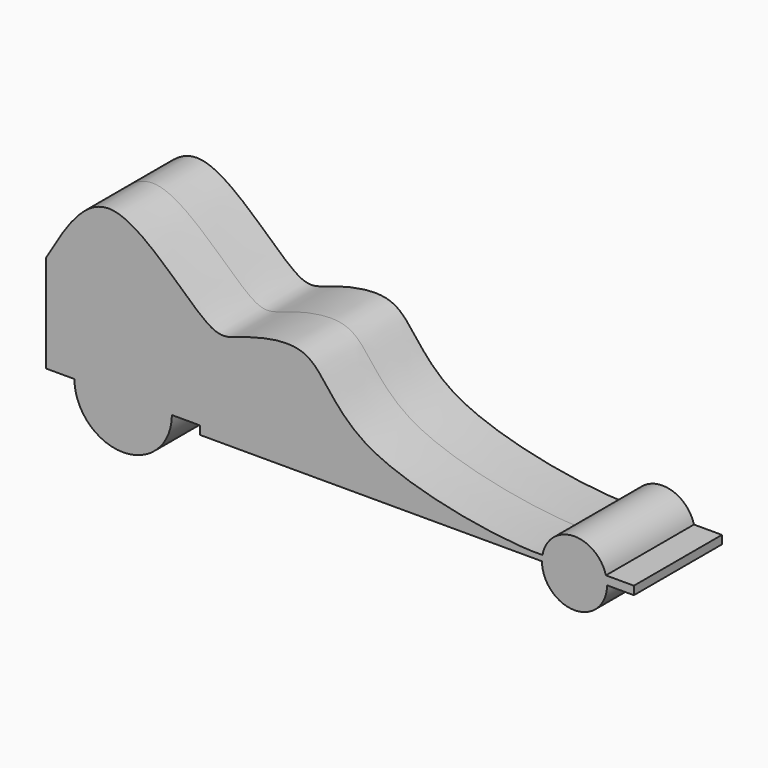
from build123d import *

# Parameters (mm, degrees)
F1_DEPTH = 40.894


with BuildPart() as f1:
    # F0 (on Front) → F1 (new body, symmetric)
    with BuildSketch(Plane.XZ):
        with BuildLine():
            Line((-76.6813904047, 0), (0, 0))
            Line((0, 0), (177.3363044405, 0))
            ThreePointArc((177.3363044405, 0), (177.4304373111, 2.1313178945), (177.7121028601, 4.2460380848))
            add(Edge.make_bspline(
                [(-191.2576705217, 78.735254705), (-176.7897142616, 103.6389034097), (-145.811693862, 156.9612748441), (-70.8007437924, 64.4715314557), (-48.7217952677, 73.6846603691), (11.6334131844, 91.5343821925), (26.4694964535, 21.7901076067), (150.7868761319, 3.2615863275), (177.7121028601, 4.2460380848)],
                knots=[0, 0, 0, 0, 0.1427505464, 0.3056498968, 0.3872509014, 0.5060771131, 0.6468803412, 0.8180400538, 0.8180400538, 0.8180400538, 0.8180400538], degree=3))
            Line((-191.2576705217, 78.735254705), (-191.2576705217, 6.2415054999))
            Line((-191.2576705217, 6.2415054999), (-170.1806822344, 6.2415054999))
            ThreePointArc((-170.1806822344, 6.2415054999), (-133.9695304632, 42.4526572712), (-97.758378692, 6.2415054999))
            Line((-97.758378692, 6.2415054999), (-76.6813904047, 6.2415054999))
            Line((-76.6813904047, 6.2415054999), (-76.6813904047, 0))
        make_face()
        with BuildLine():
            ThreePointArc((177.7121028601, 4.2460380848), (177.4304373111, 2.1313178945), (177.3363044405, 0))
            Line((177.3363044405, 0), (188.1369203329, 0))
            Line((188.1369203329, 0), (214.8862481117, 0))
            Line((214.8862481117, 0), (225.6868640041, 0))
            ThreePointArc((225.6868640041, 0), (225.4810881516, 3.1475441078), (224.867263652, 6.2415054999))
            Line((224.867263652, 6.2415054999), (214.8862481117, 6.2415054999))
            add(Edge.make_bspline(
                [(214.8862481117, 6.2415054999), (211.4686790941, 9.9028269528), (204.3524508043, 17.5266084088), (189.9467467672, 6.8039804975), (188.3806139351, 6.2415055042)],
                knots=[0, 0, 0, 0, 0.4416018613, 0.9195248558, 0.9195248558, 0.9195248558, 0.9195248558], degree=3))
            add(Edge.make_bspline(
                [(177.7121028601, 4.2460380848), (183.1855197187, 4.4461595137), (186.9530150931, 5.1070474778), (188.3806139297, 6.2415055052)],
                knots=[0.8180400538, 0.8180400538, 0.8180400538, 0.8180400538, 0.852833761, 0.852833761, 0.852833761, 0.852833761], degree=3))
        make_face()
        with BuildLine():
            Line((188.1369203329, 0), (177.3363044405, 0))
            ThreePointArc((177.3363044405, 0), (201.5115842223, -24.1752797818), (225.6868640041, 0))
            Line((225.6868640041, 0), (214.8862481117, 0))
            Line((214.8862481117, 0), (188.1369203329, 0))
        make_face()
        with BuildLine():
            ThreePointArc((181.633862326, 13.759372251), (179.160960006, 9.2137804221), (177.7121028601, 4.2460380848))
            add(Edge.make_bspline(
                [(177.7121028601, 4.2460380848), (183.1855197187, 4.4461595137), (186.9530150931, 5.1070474778), (188.3806139297, 6.2415055052)],
                knots=[0.8180400538, 0.8180400538, 0.8180400538, 0.8180400538, 0.852833761, 0.852833761, 0.852833761, 0.852833761], degree=3))
            add(Edge.make_bspline(
                [(188.3806139297, 6.2415055052), (190.4374784842, 7.8760168576), (187.6370347083, 10.4935955276), (181.6338623191, 13.7593722558)],
                knots=[0.852833761, 0.852833761, 0.852833761, 0.852833761, 0.9029640508, 0.9029640508, 0.9029640508, 0.9029640508], degree=3))
        make_face()
        with BuildLine():
            ThreePointArc((224.867263652, 6.2415054999), (225.4810881516, 3.1475441078), (225.6868640041, 0))
            Line((225.6868640041, 0), (245.6479817629, 0))
            Line((245.6479817629, 0), (245.6479817629, 6.2415054999))
            Line((245.6479817629, 6.2415054999), (224.867263652, 6.2415054999))
        make_face()
        with BuildLine():
            ThreePointArc((-170.1806822344, 6.2415054999), (-133.9695304632, -29.9696462713), (-97.758378692, 6.2415054999))
            Line((-97.758378692, 6.2415054999), (-170.1806822344, 6.2415054999))
        make_face()
        with BuildLine():
            Line((-170.1806822344, 6.2415054999), (-97.758378692, 6.2415054999))
            ThreePointArc((-97.758378692, 6.2415054999), (-133.9695304632, 42.4526572712), (-170.1806822344, 6.2415054999))
        make_face()
        with BuildLine():
            add(Edge.make_bspline(
                [(188.3806139297, 6.2415055052), (190.4374784842, 7.8760168576), (187.6370347083, 10.4935955276), (181.6338623191, 13.7593722558)],
                knots=[0.852833761, 0.852833761, 0.852833761, 0.852833761, 0.9029640508, 0.9029640508, 0.9029640508, 0.9029640508], degree=3))
            add(Edge.make_bspline(
                [(214.8862481117, 6.2415054999), (211.4686790941, 9.9028269528), (204.3524508043, 17.5266084088), (189.9467467672, 6.8039804975), (188.3806139351, 6.2415055042)],
                knots=[0, 0, 0, 0, 0.4416018613, 0.9195248558, 0.9195248558, 0.9195248558, 0.9195248558], degree=3))
            Line((214.8862481117, 6.2415054999), (224.867263652, 6.2415054999))
            ThreePointArc((224.867263652, 6.2415054999), (205.6532779909, 23.8178614753), (181.633862326, 13.759372251))
        make_face()
    extrude(amount=F1_DEPTH, both=True)


solid = f1.part
